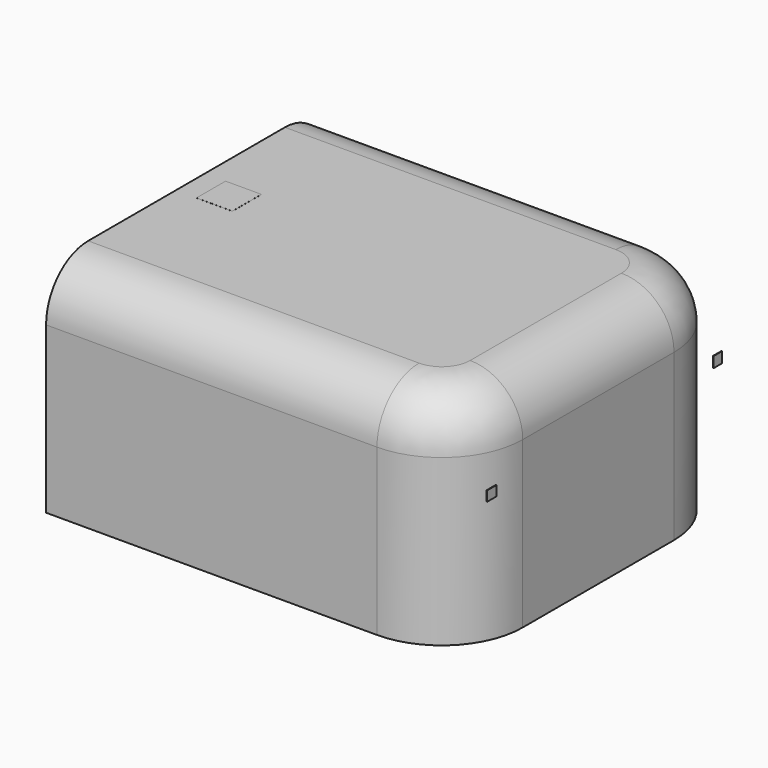
from build123d import *

# Parameters (mm, degrees)
F0_W      = 151.5413392335
F0_H      = 94.0903741866
F1_DEPTH  = 76.2
F2_DEPTH  = 101.6
F3_R      = 34.952983956
F4_R      = 22.6887790592
F5_W      = 15.484392643
F5_H      = 15.6958438456
F6_DEPTH  = 0.0254
F7_W      = 4.5801447704
F7_H      = 4.6048928052
F8_DEPTH  = 0.254
F9_W      = 4.8926994205
F9_H      = 4.318498075
F10_DEPTH = 0.254


with BuildPart() as f1:
    # F0 (on Right) → F1 (new body)
    with BuildSketch(Plane.YZ):
        with Locations((-61.7814576253, 20.8186497912)):
            Rectangle(F0_W, F0_H)
    extrude(amount=F1_DEPTH)

    # F2 (add): a face of the model
    f2_faces = [f1.faces().sort_by_distance(p)[0] for p in [
        (0, -61.7814576253, 20.8186497912),
    ]]
    extrude(f2_faces, amount=F2_DEPTH)

    # F3
    f3_edges = [f1.edges().sort_by_distance(p)[0] for p in [
        (76.2, -137.552127, 20.81865),
        (76.2, 13.989212, 20.81865),
    ]]
    fillet(f3_edges, radius=F3_R)

    # F4
    f4_edges = [f1.edges().sort_by_distance(p)[0] for p in [
        (76.2, -61.781458, 67.863837),
    ]]
    fillet(f4_edges, radius=F4_R)

    # F5 (on face) → F6 (join)
    with BuildSketch(Plane.XY.offset(67.8638368845)):
        with Locations((-84.8993882537, -59.7420018166)):
            Rectangle(F5_W, F5_H)
    extrude(amount=F6_DEPTH)


with BuildPart() as f8:
    # F7 (on face) → F8 (new body)
    with BuildSketch(Plane.YZ.offset(76.2)):
        with Locations((2.2900723852, 32.9537605867)):
            Rectangle(F7_W, F7_H)
    extrude(amount=F8_DEPTH)


with BuildPart() as f10:
    # F9 (on face) → F10 (new body)
    with BuildSketch(Plane.YZ.offset(76.2)):
        with Locations((-119.608040899, 31.7054279149)):
            Rectangle(F9_W, F9_H)
    extrude(amount=F10_DEPTH)


solid = Compound([f1.part, f8.part, f10.part])
